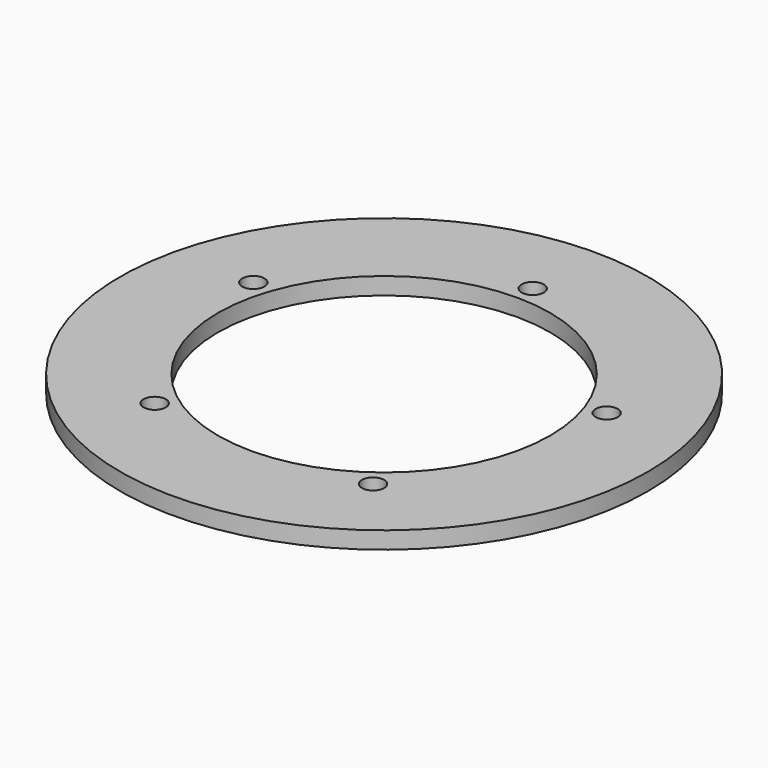
from build123d import *

# Parameters (mm, degrees)
F0_R     = 27.400357
F2_DEPTH = 1.778
F1_R     = 17.246114
F3_DEPTH = 1.778
F5_R     = 1.152069
F6_DEPTH = 8.89
F7_COUNT = 5


with BuildPart() as f2:
    # F0 (on Top) → F2 (new body)
    with BuildSketch(Plane.XY):
        Circle(F0_R)
    extrude(amount=F2_DEPTH)

    # F1 (on Top) → F3 (cut, through all)
    with BuildSketch(Plane.XY):
        Circle(F1_R)
    extrude(amount=F3_DEPTH, mode=Mode.SUBTRACT)


with BuildPart() as f6:
    # F5 (on Top) → F6 (new body, symmetric)
    with BuildSketch(Plane.XY):
        with Locations((0, 19.281207)):
            Circle(F5_R)
    extrude(amount=F6_DEPTH, both=True)


with BuildPart() as f7_1:
    # F7: instance of F6
    add(f6.part.rotate(Axis((0, 0, 1.187779), (0, 0, -1)), 1 * 360 / F7_COUNT))


with BuildPart() as f7_2:
    # F7: instance of F6
    add(f6.part.rotate(Axis((0, 0, 1.187779), (0, 0, -1)), 2 * 360 / F7_COUNT))


with BuildPart() as f7_3:
    # F7: instance of F6
    add(f6.part.rotate(Axis((0, 0, 1.187779), (0, 0, -1)), 3 * 360 / F7_COUNT))


with BuildPart() as f7_4:
    # F7: instance of F6
    add(f6.part.rotate(Axis((0, 0, 1.187779), (0, 0, -1)), 4 * 360 / F7_COUNT))


with BuildPart() as f2_1:
    add(f2.part)

    # F8: cut F7_4, F6, F7_1, F7_2, F7_3
    add(f7_4.part, mode=Mode.SUBTRACT)
    add(f6.part, mode=Mode.SUBTRACT)
    add(f7_1.part, mode=Mode.SUBTRACT)
    add(f7_2.part, mode=Mode.SUBTRACT)
    add(f7_3.part, mode=Mode.SUBTRACT)


solid = f2_1.part
